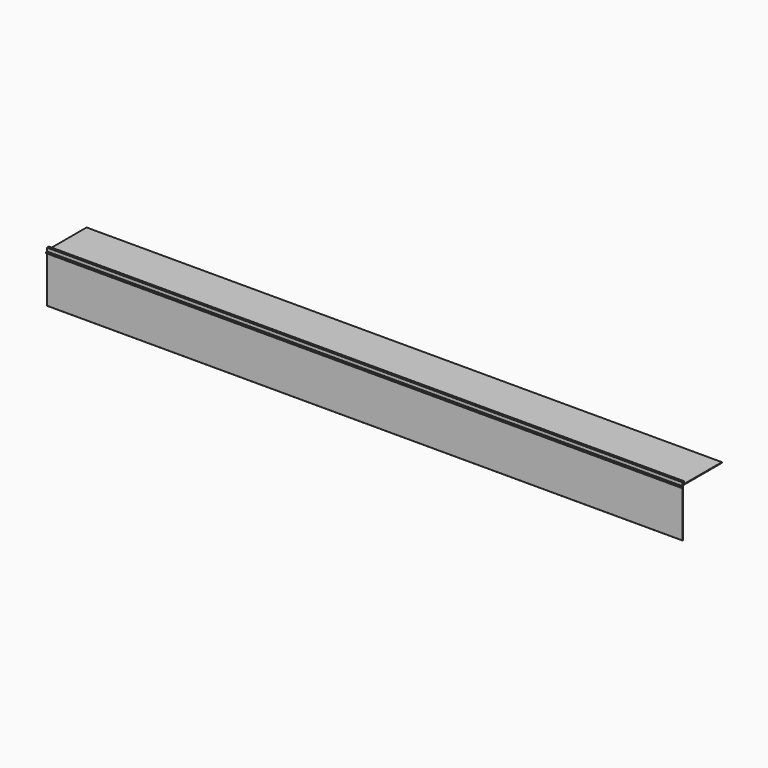
from build123d import *

# Parameters (mm, degrees)
F1_DEPTH = 1000


with BuildPart() as f1:
    # F0 (on Right) → F1 (new body)
    with BuildSketch(Plane.YZ):
        with BuildLine():
            Line((0, 73.95), (0, 0.5))
            ThreePointArc((0, 0.5), (0.146447, 0.146447), (0.5, 0))
            Line((0.5, 0), (1.1, 0))
            ThreePointArc((1.1, 0), (1.453553, 0.146447), (1.6, 0.5))
            Line((1.6, 0.5), (1.6, 76.2))
            Line((1.6, 76.2), (77.798804, 76.2))
            Line((77.798804, 76.2), (77.798804, 77.2))
            Line((77.798804, 77.2), (1.598804, 77.2))
            Line((1.598804, 77.2), (1.598804, 79.3))
            Line((1.598804, 79.3), (2.548804, 79.3))
            ThreePointArc((2.548804, 79.3), (2.696007, 79.118338), (2.919614, 79.05))
            Line((2.919614, 79.05), (3.348827, 79.05))
            ThreePointArc((3.348827, 79.05), (3.524228, 79.121858), (3.598797, 79.296124))
            Line((3.598797, 79.296124), (3.598857, 79.3))
            Line((3.598857, 79.3), (3.598857, 80.9))
            Line((3.598857, 80.9), (0, 80.9))
            Line((0, 80.9), (0, 75.55))
            Line((0, 75.55), (-1.85, 75.55))
            Line((-1.85, 75.55), (-1.85, 73.95))
            ThreePointArc((-1.85, 73.95), (-1.776777, 73.773223), (-1.6, 73.7))
            Line((-1.6, 73.7), (-1.22081, 73.7))
            ThreePointArc((-1.22081, 73.7), (-0.997203, 73.768338), (-0.85, 73.95))
            Line((-0.85, 73.95), (0, 73.95))
        make_face()
    extrude(amount=F1_DEPTH)


solid = f1.part
